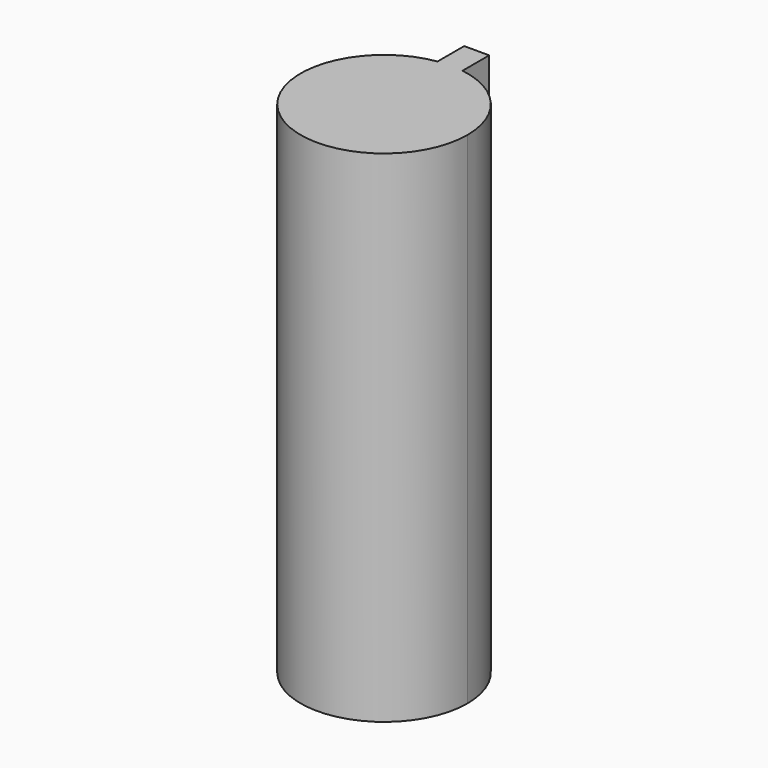
from build123d import *

# Parameters (mm, degrees)
F1_DEPTH = 60


with BuildPart() as f1:
    # F0 (on Top) → F1 (new body)
    with BuildSketch(Plane.XY):
        with BuildLine():
            ThreePointArc((-1.5, 9.88686), (-6.519202, -7.582875), (10, 0))
            ThreePointArc((10, 0), (7.582875, 6.519202), (1.5, 9.88686))
            ThreePointArc((1.5, 9.88686), (0, 10), (-1.5, 9.88686))
        make_face()
        with BuildLine():
            ThreePointArc((-1.5, 9.88686), (0, 10), (1.5, 9.88686))
            Line((1.5, 9.88686), (1.5, 13.88686))
            Line((1.5, 13.88686), (-1.5, 13.88686))
            Line((-1.5, 13.88686), (-1.5, 9.88686))
        make_face()
    extrude(amount=F1_DEPTH)


solid = f1.part
